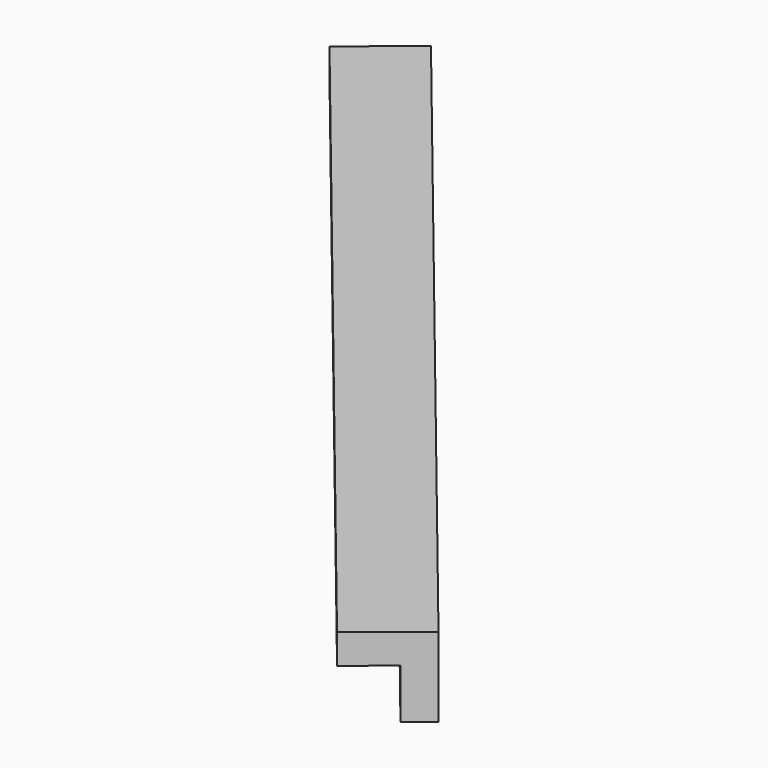
from build123d import *

# Parameters (mm, degrees)
BOX137_W               = 0.8
BOX137_H               = 10
BOX137_DEPTH           = 0.8
BOX138_W               = 0.8
BOX138_H               = 10
BOX138_DEPTH           = 0.8
CUT072_PLACEMENT_ANGLE = 39


with BuildPart() as cubo137:
    # Box137 → Box137 (new body)
    with BuildSketch(Plane.XY):
        with Locations((0.4, 5)):
            Rectangle(BOX137_W, BOX137_H)
    extrude(amount=BOX137_DEPTH)


with BuildPart() as obj1:
    # Box138 → Box138 (new body)
    with BuildSketch(Plane(origin=(0.3, 0, 0.3), x_dir=(1, 0, 0), z_dir=(0, 0, 1))):
        with Locations((0.4, 5)):
            Rectangle(BOX138_W, BOX138_H)
    extrude(amount=BOX138_DEPTH)

    # Cut072: cut Cubo137
    add(cubo137.part, mode=Mode.SUBTRACT)


with BuildPart() as obj1_1:
    # Cut072 placement: moved
    add(obj1.part.moved(Location((-140.2, 175, -1.45))).rotate(Axis((-140.2, 175, -1.45), (0, 0, 1)), CUT072_PLACEMENT_ANGLE))


solid = obj1_1.part
